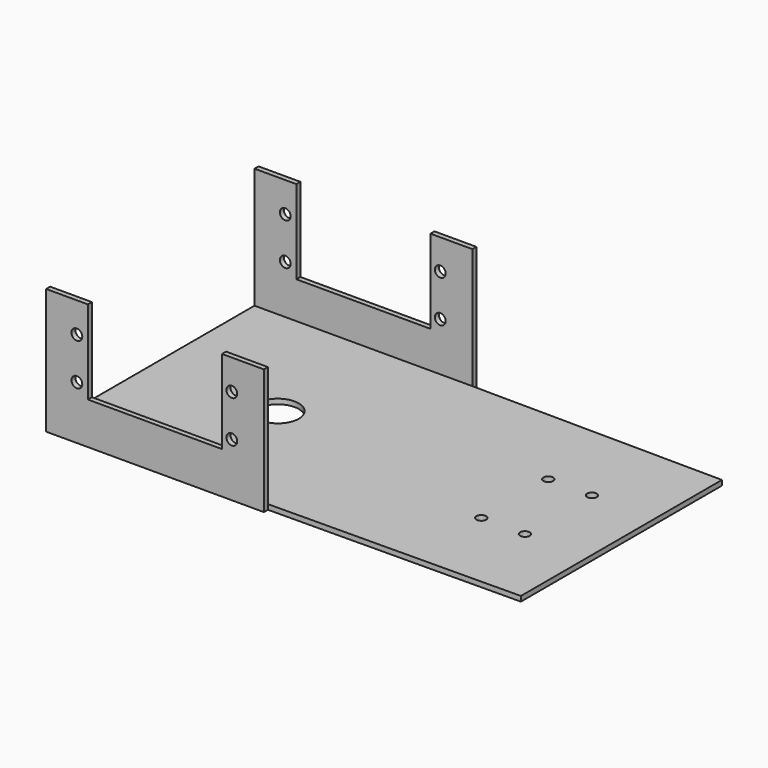
from build123d import *

# Parameters (mm, degrees)
F0_R     = 6.35
F0_R_2   = 1.4732
F1_DEPTH = 1.524
F2_W     = 66.04
F2_H     = 1.524
F3_DEPTH = 38.1
F4_W     = 40.64
F4_H     = 25.4
F4_R     = 1.6383
F5_DEPTH = 1.524


with BuildPart() as f1:
    # F0 (on Top) → F1 (new body)
    with BuildSketch(Plane.XY):
        Polygon((11.91761, 0), (11.91761, 38.1), (-64.28239, 38.732044), (-130.32239, 38.732044), (-130.32239, 0), (-130.32239, -37.783978), (11.91761, -38.1), align=None)
        with Locations((-92.262112, 0)):
            Circle(F0_R, mode=Mode.SUBTRACT)
        with Locations((-20.401943, -12.703063)):
            Circle(F0_R_2, mode=Mode.SUBTRACT)
        with Locations((-7.168442, -12.703063)):
            Circle(F0_R_2, mode=Mode.SUBTRACT)
        with Locations((-20.401943, 12.703063)):
            Circle(F0_R_2, mode=Mode.SUBTRACT)
        with Locations((-7.168442, 12.703063)):
            Circle(F0_R_2, mode=Mode.SUBTRACT)
        Polygon((-64.28239, -38.1), (11.91761, -38.1), (-130.32239, -37.783978), align=None)
    extrude(amount=F1_DEPTH)

    # F2 (on Top) → F3 (join)
    with BuildSketch(Plane.XY):
        with Locations((-97.30239, 39.494044)):
            Rectangle(F2_W, F2_H)
    extrude(amount=F3_DEPTH)

    # F4 (on face) → F5 (cut)
    with BuildSketch(Plane.XZ.offset(-38.732044)):
        with Locations((-97.30239, 25.4)):
            Rectangle(F4_W, F4_H)
        with Locations((-120.988675, 28.948788)):
            Circle(F4_R)
        with Locations((-120.988675, 16.248788)):
            Circle(F4_R)
        with Locations((-73.998675, 16.248788)):
            Circle(F4_R)
        with Locations((-73.998675, 28.948788)):
            Circle(F4_R)
    extrude(amount=-F5_DEPTH, mode=Mode.SUBTRACT)

    # F6: F1 across plane


with BuildPart() as f1_1:
    add(f1.part)
    add(f1.part.mirror(Plane.XZ))


solid = f1_1.part
